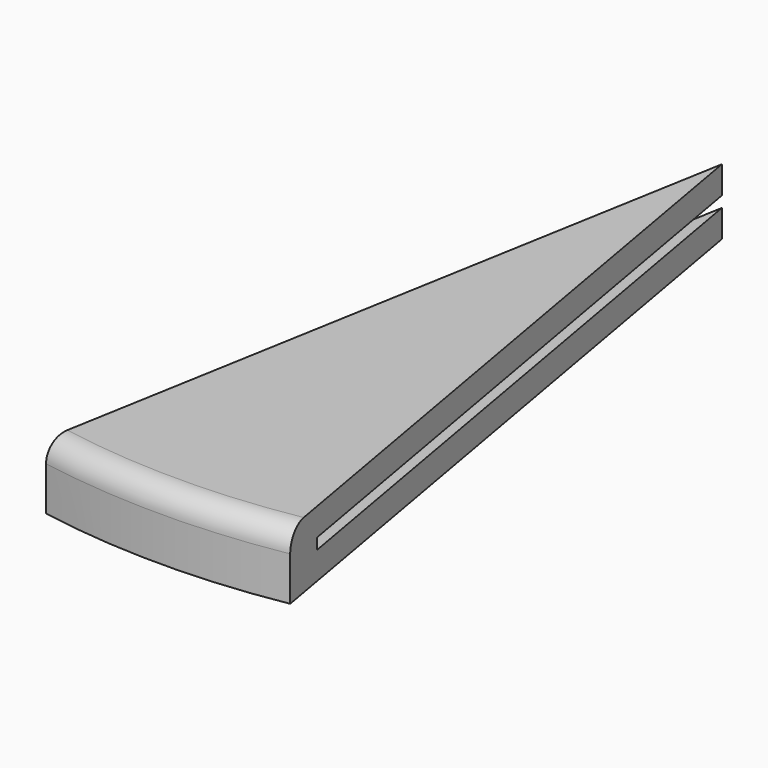
from build123d import *

# Parameters (mm, degrees)
F1_DEPTH = 38.1
F2_R     = 12.7
F3_W     = 381
F3_H     = 6.35
F4_DEPTH = 12.7
F5_W     = 343.8676841179
F5_H     = 6.35
F6_DEPTH = 12.7
F7_R     = 12.7
F8_DEPTH = 2.54


with BuildPart() as f1:
    # F0 (on Top) → F1 (new body)
    with BuildSketch(Plane.XY):
        with BuildLine():
            Line((0, 0), (-70.5706194038, -400.2258708242))
            ThreePointArc((-70.5706194038, -400.2258708242), (0, -406.4), (70.5706194038, -400.2258708242))
            Line((70.5706194038, -400.2258708242), (0, 0))
        make_face()
    extrude(amount=-F1_DEPTH)

    # F2
    f2_edges = [f1.edges().sort_by_distance(p)[0] for p in [
        (0, -406.4, 0),
    ]]
    fillet(f2_edges, radius=F2_R)

    # F3 (on face) → F4 (cut)
    with BuildSketch(Plane(origin=(0, 0, 0), x_dir=(-0.1736481777, 0.984807753, 0), z_dir=(0.984807753, 0.1736481777, 0))):
        with Locations((-190.5, -19.05)):
            Rectangle(F3_W, F3_H)
    extrude(amount=-F4_DEPTH, mode=Mode.SUBTRACT)

    # F5 (on face) → F6 (cut)
    with BuildSketch(Plane(origin=(0, 0, 0), x_dir=(-0.1736481777, -0.984807753, 0), z_dir=(-0.984807753, 0.1736481777, 0))):
        with Locations((209.066157941, -19.05)):
            Rectangle(F5_W, F5_H)
    extrude(amount=-F6_DEPTH, mode=Mode.SUBTRACT)

    # F7 (on face) → F8 (cut)
    with BuildSketch(Plane(origin=(0, 0, -38.1), x_dir=(1, 0, 0), z_dir=(0, 0, -1))):
        with Locations((0, 381)):
            Circle(F7_R)
    extrude(amount=-F8_DEPTH, mode=Mode.SUBTRACT)


solid = f1.part
